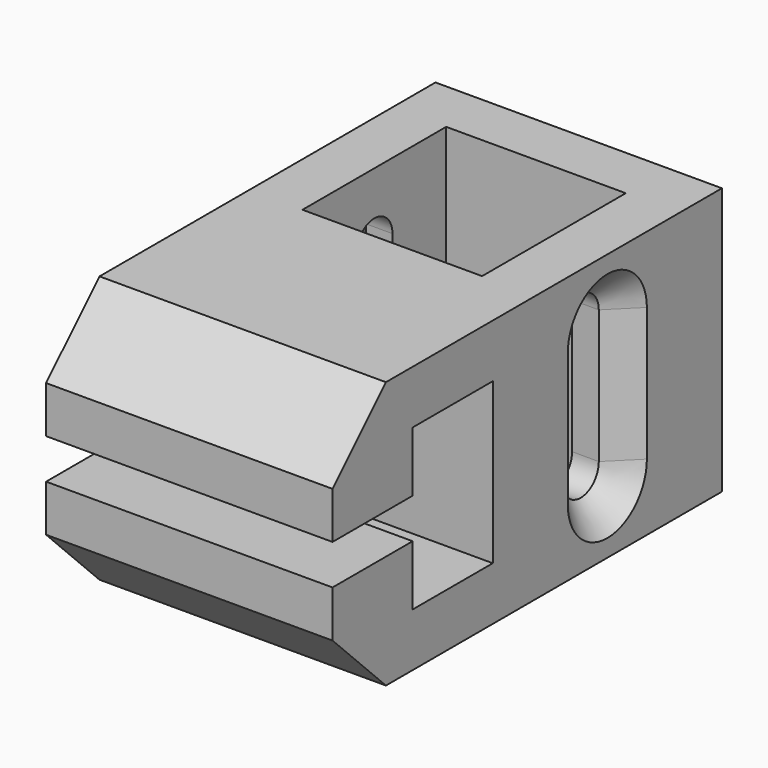
from build123d import *

# Parameters (mm, degrees)
SKETCH_W        = 21.45
SKETCH_H        = 21.45
SKETCH_W_2      = 13.45
SKETCH_H_2      = 13.45
PAD_DEPTH       = 20
SKETCH001_W     = 21.45
SKETCH001_H     = 20
PAD001_DEPTH    = 15
POCKET_DEPTH    = 21.451
POCKET001_DEPTH = 21.451
CHAMFER_SIZE    = 2
CHAMFER001_SIZE = 5


with BuildPart() as part:
    # Sketch → Pad (new body)
    with BuildSketch(Plane.XY):
        Rectangle(SKETCH_W, SKETCH_H)
        Rectangle(SKETCH_W_2, SKETCH_H_2, mode=Mode.SUBTRACT)
    extrude(amount=PAD_DEPTH)

    # Sketch001 (on Face3 of Pad) → Pad001 (join)
    with BuildSketch(Plane.XZ.offset(10.725)):
        with Locations((0, 10)):
            Rectangle(SKETCH001_W, SKETCH001_H)
    extrude(amount=PAD001_DEPTH)

    # Sketch002 (on Face6 of Pad001) → Pocket (cut, through all)
    with BuildSketch(Plane(origin=(-10.725, 0, 0), x_dir=(0, -1, 0), z_dir=(-1, 0, 0))):
        Polygon((18.225, 11.5), (25.725, 11.5), (25.725, 8.5), (18.225, 8.5), (18.225, 4), (10.725, 4), (10.725, 16), (18.225, 16), align=None)
    extrude(amount=-POCKET_DEPTH, mode=Mode.SUBTRACT)

    # Sketch003 (on Face2 of Pocket) → Pocket001 (cut, through all)
    with BuildSketch(Plane(origin=(-10.725, 0, 0), x_dir=(0, -1, 0), z_dir=(-1, 0, 0))):
        with BuildLine():
            ThreePointArc((1.7, 15), (0, 16.7), (-1.7, 15))
            Line((-1.7, 15), (-1.7, 5))
            ThreePointArc((-1.7, 5), (0, 3.3), (1.7, 5))
            Line((1.7, 15), (1.7, 5))
        make_face()
    extrude(amount=-POCKET001_DEPTH, mode=Mode.SUBTRACT)

    # Chamfer
    chamfer_edges = [part.edges().sort_by_distance(p)[0] for p in [
        (-10.725, -1.7, 10),
        (-10.725, 1.7, 10),
        (-10.725, 0, 3.3),
        (-10.725, 0, 16.7),
        (10.725, 1.7, 10),
        (10.725, -1.7, 10),
        (10.725, 0, 3.3),
        (10.725, 0, 16.7),
    ]]
    chamfer(chamfer_edges, length=CHAMFER_SIZE)

    # Chamfer001
    chamfer001_edges = [part.edges().sort_by_distance(p)[0] for p in [
        (0, -25.725, 0),
        (0, -25.725, 20),
    ]]
    chamfer(chamfer001_edges, length=CHAMFER001_SIZE)


solid = part.part
